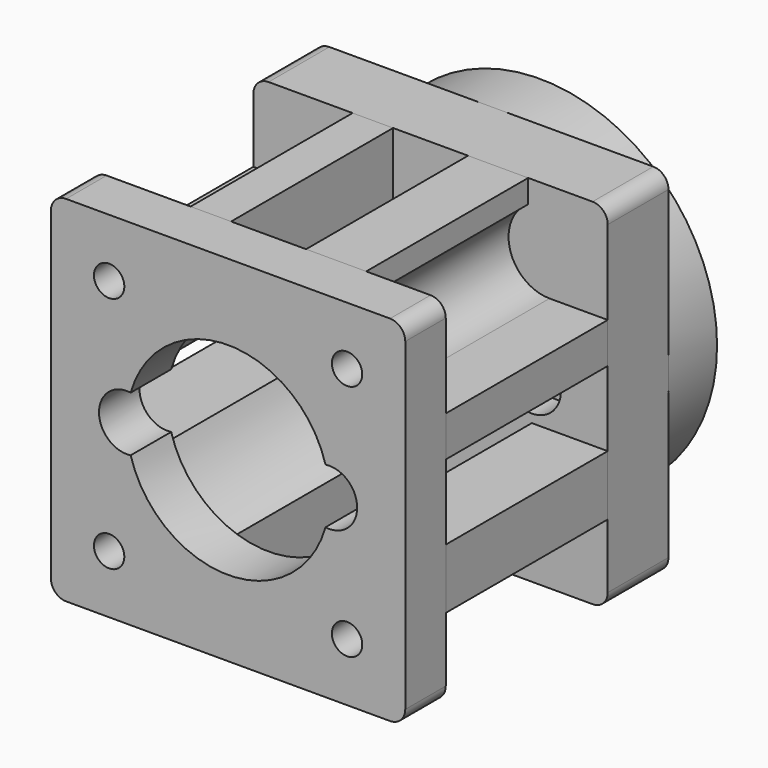
from build123d import *

# Parameters (mm, degrees)
F0_R      = 4.5
F0_R_2    = 3.5
F1_DEPTH  = 7
F2_R      = 35
F2_R_2    = 33
F3_DEPTH  = 12
F4_W      = 70
F4_H      = 70
F4_R      = 3.5
F4_R_2    = 12.5
F5_DEPTH  = 15
F7_R      = 5.75
F8_DEPTH  = 6
F10_W     = 70
F10_H     = 70
F10_R     = 3
F11_DEPTH = 10
F13_DEPTH = 40
F14_R     = 3
F15_R     = 3


with BuildPart() as f1:
    # F0 (on Front) → F1 (new body)
    with BuildSketch(Plane.XZ):
        with Locations((-20, 0)):
            Circle(F0_R)
        with Locations((-20, 0)):
            Circle(F0_R_2, mode=Mode.SUBTRACT)
        with Locations((20, 0)):
            Circle(F0_R)
        with Locations((20, 0)):
            Circle(F0_R_2, mode=Mode.SUBTRACT)
    extrude(amount=-F1_DEPTH)


with BuildPart() as f3:
    # F2 (on Front) → F3 (new body)
    with BuildSketch(Plane.XZ):
        Circle(F2_R)
        Circle(F2_R_2, mode=Mode.SUBTRACT)
    extrude(amount=-F3_DEPTH)


with BuildPart() as f5:
    # F4 (on Front) → F5 (new body)
    with BuildSketch(Plane.XZ):
        Rectangle(F4_W, F4_H)
        with Locations((-20, 0)):
            Circle(F4_R, mode=Mode.SUBTRACT)
        Circle(F4_R_2, mode=Mode.SUBTRACT)
        with Locations((20, 0)):
            Circle(F4_R, mode=Mode.SUBTRACT)
    extrude(amount=F5_DEPTH)

    # F7 (on offset) → F8 (cut)
    with BuildSketch(Plane.XZ.offset(15)):
        with Locations((-20, 0)):
            Circle(F7_R)
        with Locations((20, 0)):
            Circle(F7_R)
    extrude(amount=-F8_DEPTH, mode=Mode.SUBTRACT)

    # F15
    f15_edges = [f5.edges().sort_by_distance(p)[0] for p in [
        (35, -7.5, -35),
        (35, -7.5, 35),
        (-35, -7.5, 35),
        (-35, -7.5, -35),
    ]]
    fillet(f15_edges, radius=F15_R)


with BuildPart() as f11:
    # F10 (on offset) → F11 (new body)
    with BuildSketch(Plane.XZ.offset(65)):
        Rectangle(F10_W, F10_H)
        with Locations((-23.5, -23.5)):
            Circle(F10_R, mode=Mode.SUBTRACT)
        with Locations((23.5, -23.5)):
            Circle(F10_R, mode=Mode.SUBTRACT)
        with Locations((-23.5, 23.5)):
            Circle(F10_R, mode=Mode.SUBTRACT)
        with BuildLine():
            ThreePointArc((-19.24375, 5.44776), (0, 20), (19.24375, 5.44776))
            ThreePointArc((19.24375, 5.44776), (23.61183, 4.147853), (25.5, 0))
            ThreePointArc((25.5, 0), (23.61183, -4.147853), (19.24375, -5.44776))
            ThreePointArc((19.24375, -5.44776), (0, -20), (-19.24375, -5.44776))
            ThreePointArc((-19.24375, -5.44776), (-25.5, 0), (-19.24375, 5.44776))
        make_face(mode=Mode.SUBTRACT)
        with Locations((23.5, 23.5)):
            Circle(F10_R, mode=Mode.SUBTRACT)
    extrude(amount=-F11_DEPTH)

    # F14
    f14_edges = [f11.edges().sort_by_distance(p)[0] for p in [
        (-35, -60, 35),
        (35, -60, 35),
        (35, -60, -35),
        (-35, -60, -35),
    ]]
    fillet(f14_edges, radius=F14_R)


with BuildPart() as f13:
    # F12 (on offset) → F13 (new body)
    with BuildSketch(Plane.XZ.offset(15)):
        with BuildLine():
            Line((-15.405996, 35), (-15.405996, 23.5))
            ThreePointArc((-15.405996, 23.5), (-21.310088, 15.707876), (-30.409, 19.283529))
            Line((-30.409, 19.283529), (-35, 19.283529))
            Line((-35, 19.283529), (-35.000031, 7.406))
            Line((-35.000031, 7.406), (-20.000031, 7.406))
            ThreePointArc((-20.000031, 7.406), (-15.069489, 15.06948), (-7.405996, 20))
            Line((-7.405996, 20), (-7.405996, 35))
            Line((-7.405996, 35), (-15.405996, 35))
        make_face()
        with BuildLine():
            Line((-20, -7.405996), (-35, -7.405996))
            Line((-35, -7.405996), (-35, -15.405996))
            Line((-35, -15.405996), (-23.5, -15.405996))
            ThreePointArc((-23.5, -15.405996), (-15.707876, -21.310088), (-19.283529, -30.409))
            Line((-19.283529, -30.409), (-19.283529, -35))
            Line((-19.283529, -35), (-7.406, -35.000031))
            Line((-7.406, -35.000031), (-7.406, -20.000031))
            ThreePointArc((-7.406, -20.000031), (-15.06948, -15.069489), (-20, -7.405996))
        make_face()
        with BuildLine():
            Line((7.405996, -20), (7.405996, -35))
            Line((7.405996, -35), (15.405996, -35))
            Line((15.405996, -35), (15.405996, -23.5))
            ThreePointArc((15.405996, -23.5), (21.310088, -15.707876), (30.409, -19.283529))
            Line((30.409, -19.283529), (35, -19.283529))
            Line((35, -19.283529), (35.000031, -7.406))
            Line((35.000031, -7.406), (20.000031, -7.406))
            ThreePointArc((20.000031, -7.406), (15.069489, -15.06948), (7.405996, -20))
        make_face()
        with BuildLine():
            Line((20, 7.405996), (35, 7.405996))
            Line((35, 7.405996), (35, 15.405996))
            Line((35, 15.405996), (23.5, 15.405996))
            ThreePointArc((23.5, 15.405996), (15.707876, 21.310088), (19.283529, 30.409))
            Line((19.283529, 30.409), (19.283529, 35))
            Line((19.283529, 35), (7.406, 35.000031))
            Line((7.406, 35.000031), (7.406, 20.000031))
            ThreePointArc((7.406, 20.000031), (15.06948, 15.069489), (20, 7.405996))
        make_face()
    extrude(amount=F13_DEPTH)


solid = Compound([f1.part, f3.part, f5.part, f11.part, f13.part])
